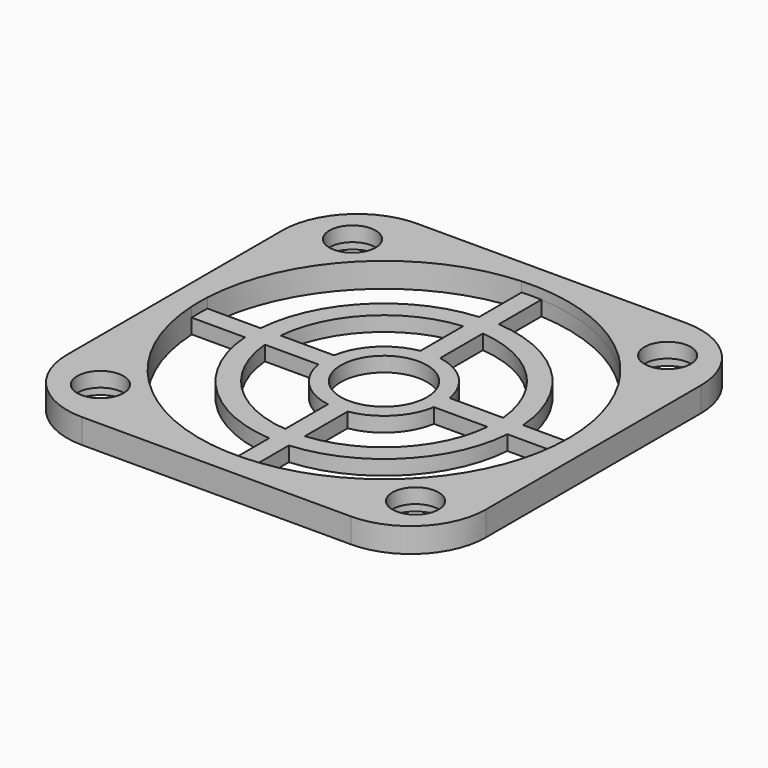
from build123d import *

# Parameters (mm, degrees)
F0_R     = 1.6
F0_R_2   = 4.38006
F1_DEPTH = 2.5
F3_DEPTH = 1
F4_R     = 3
F4_R_2   = 1.6
F5_DEPTH = 1
F7_DEPTH = 2.5
F8_R     = 1.7
F9_DEPTH = 2.501
F10_D    = 4.7


with BuildPart() as f1:
    # F0 (on Top) → F1 (new body)
    with BuildSketch(Plane.XY):
        with BuildLine():
            Line((13.65, 20), (-13.65, 20))
            ThreePointArc((-13.65, 20), (-18.140128, 18.140128), (-20, 13.65))
            Line((-20, 13.65), (-20, -13.65))
            ThreePointArc((-20, -13.65), (-18.140128, -18.140128), (-13.65, -20))
            Line((-13.65, -20), (13.65, -20))
            ThreePointArc((13.65, -20), (18.140128, -18.140128), (20, -13.65))
            Line((20, -13.65), (20, 13.65))
            ThreePointArc((20, 13.65), (18.140128, 18.140128), (13.65, 20))
        make_face()
        with Locations((-16, -16)):
            Circle(F0_R, mode=Mode.SUBTRACT)
        with BuildLine():
            ThreePointArc((-1, -18.723314), (-13.258252, -13.258252), (-18.723314, -1))
            Line((-18.723314, -1), (-13.327216, -1))
            ThreePointArc((-13.327216, -1), (-9.450256, -9.450256), (-1, -13.327216))
            Line((-1, -13.327216), (-1, -18.723314))
        make_face(mode=Mode.SUBTRACT)
        with BuildLine():
            ThreePointArc((-5.873836, -1), (-4.213191, -4.213191), (-1, -5.873836))
            Line((-1, -5.873836), (-1, -11.296782))
            ThreePointArc((-1, -11.296782), (-8.019267, -8.019267), (-11.296782, -1))
            Line((-11.296782, -1), (-5.873836, -1))
        make_face(mode=Mode.SUBTRACT)
        with Locations((16, -16)):
            Circle(F0_R, mode=Mode.SUBTRACT)
        with BuildLine():
            ThreePointArc((18.723314, -1), (13.258252, -13.258252), (1, -18.723314))
            Line((1, -18.723314), (1, -13.327216))
            ThreePointArc((1, -13.327216), (9.450256, -9.450256), (13.327216, -1))
            Line((13.327216, -1), (18.723314, -1))
        make_face(mode=Mode.SUBTRACT)
        with BuildLine():
            ThreePointArc((1, -5.873836), (4.213191, -4.213191), (5.873836, -1))
            Line((5.873836, -1), (11.296782, -1))
            ThreePointArc((11.296782, -1), (8.019267, -8.019267), (1, -11.296782))
            Line((1, -11.296782), (1, -5.873836))
        make_face(mode=Mode.SUBTRACT)
        with BuildLine():
            ThreePointArc((-11.296782, 1), (-8.019267, 8.019267), (-1, 11.296782))
            Line((-1, 11.296782), (-1, 5.873836))
            ThreePointArc((-1, 5.873836), (-4.213191, 4.213191), (-5.873836, 1))
            Line((-5.873836, 1), (-11.296782, 1))
        make_face(mode=Mode.SUBTRACT)
        with BuildLine():
            ThreePointArc((-18.723314, 1), (-13.258252, 13.258252), (-1, 18.723314))
            Line((-1, 18.723314), (-1, 13.327216))
            ThreePointArc((-1, 13.327216), (-9.450256, 9.450256), (-13.327216, 1))
            Line((-13.327216, 1), (-18.723314, 1))
        make_face(mode=Mode.SUBTRACT)
        with Locations((-16, 16)):
            Circle(F0_R, mode=Mode.SUBTRACT)
        Circle(F0_R_2, mode=Mode.SUBTRACT)
        with BuildLine():
            Line((11.296782, 1), (5.873836, 1))
            ThreePointArc((5.873836, 1), (4.213191, 4.213191), (1, 5.873836))
            Line((1, 5.873836), (1, 11.296782))
            ThreePointArc((1, 11.296782), (8.019267, 8.019267), (11.296782, 1))
        make_face(mode=Mode.SUBTRACT)
        with BuildLine():
            Line((1, 13.327216), (1, 18.723314))
            ThreePointArc((1, 18.723314), (13.258252, 13.258252), (18.723314, 1))
            Line((18.723314, 1), (13.327216, 1))
            ThreePointArc((13.327216, 1), (9.450256, 9.450256), (1, 13.327216))
        make_face(mode=Mode.SUBTRACT)
        with Locations((16, 16)):
            Circle(F0_R, mode=Mode.SUBTRACT)
    extrude(amount=F1_DEPTH)

    # F2 (on face) → F3 (cut)
    with BuildSketch(Plane.XY.offset(2.5)):
        with BuildLine():
            ThreePointArc((18.75, 0), (12.899855, 13.607213), (-1, 18.723314))
            ThreePointArc((-1, 18.723314), (-13.258252, 13.258252), (-18.723314, 1))
            ThreePointArc((-18.723314, 1), (-18.75, 0), (-18.723314, -1))
            ThreePointArc((-18.723314, -1), (-13.258252, -13.258252), (-1, -18.723314))
            ThreePointArc((-1, -18.723314), (12.899855, -13.607213), (18.75, 0))
        make_face()
    extrude(amount=-F3_DEPTH, mode=Mode.SUBTRACT)

    # F4 (on face) → F5 (cut)
    with BuildSketch(Plane(origin=(0, 0, 0), x_dir=(1, 0, 0), z_dir=(0, 0, -1))):
        with Locations((-16, 16)):
            Circle(F4_R)
        with Locations((-16, 16)):
            Circle(F4_R_2, mode=Mode.SUBTRACT)
        with Locations((16, 16)):
            Circle(F4_R)
        with Locations((16, 16)):
            Circle(F4_R_2, mode=Mode.SUBTRACT)
        with Locations((16, -16)):
            Circle(F4_R)
        with Locations((16, -16)):
            Circle(F4_R_2, mode=Mode.SUBTRACT)
        with Locations((-16, -16)):
            Circle(F4_R)
        with Locations((-16, -16)):
            Circle(F4_R_2, mode=Mode.SUBTRACT)
    extrude(amount=-F5_DEPTH, mode=Mode.SUBTRACT)

    # F6 (on face) → F7 (join, through all)
    with BuildSketch(Plane(origin=(0, 0, 0), x_dir=(1, 0, 0), z_dir=(0, 0, -1))):
        with BuildLine():
            ThreePointArc((-13.65, 21.27), (-19.038154, 19.038154), (-21.27, 13.65))
            Line((-21.27, 13.65), (-21.27, -13.65))
            ThreePointArc((-21.27, -13.65), (-19.038154, -19.038154), (-13.65, -21.27))
            Line((-13.65, -21.27), (13.65, -21.27))
            ThreePointArc((13.65, -21.27), (19.038154, -19.038154), (21.27, -13.65))
            Line((21.27, -13.65), (21.27, 13.65))
            ThreePointArc((21.27, 13.65), (19.038154, 19.038154), (13.65, 21.27))
            Line((13.65, 21.27), (-13.65, 21.27))
        make_face()
        with BuildLine():
            ThreePointArc((-20, 13.65), (-18.140128, 18.140128), (-13.65, 20))
            Line((-13.65, 20), (13.65, 20))
            ThreePointArc((13.65, 20), (18.140128, 18.140128), (20, 13.65))
            Line((20, 13.65), (20, -13.65))
            ThreePointArc((20, -13.65), (18.140128, -18.140128), (13.65, -20))
            Line((13.65, -20), (-13.65, -20))
            ThreePointArc((-13.65, -20), (-18.140128, -18.140128), (-20, -13.65))
            Line((-20, -13.65), (-20, 13.65))
        make_face(mode=Mode.SUBTRACT)
    extrude(amount=-F7_DEPTH)

    # F8 (on face) → F9 (cut, through all)
    with BuildSketch(Plane.XY.offset(2.5)):
        with Locations((16, 16)):
            Circle(F8_R)
        with Locations((16, -16)):
            Circle(F8_R)
        with Locations((-16, -16)):
            Circle(F8_R)
        with Locations((-16, 16)):
            Circle(F8_R)
    extrude(amount=-F9_DEPTH, mode=Mode.SUBTRACT)

    # F10 (through all)
    with Locations(Plane(origin=(0, 0, 0), x_dir=(1, 0, 0), z_dir=(0, 0, -1))):
        with Locations((-16, -16), (16, -16), (16, 16), (-16, 16)):
            Hole(F10_D / 2)


solid = f1.part
